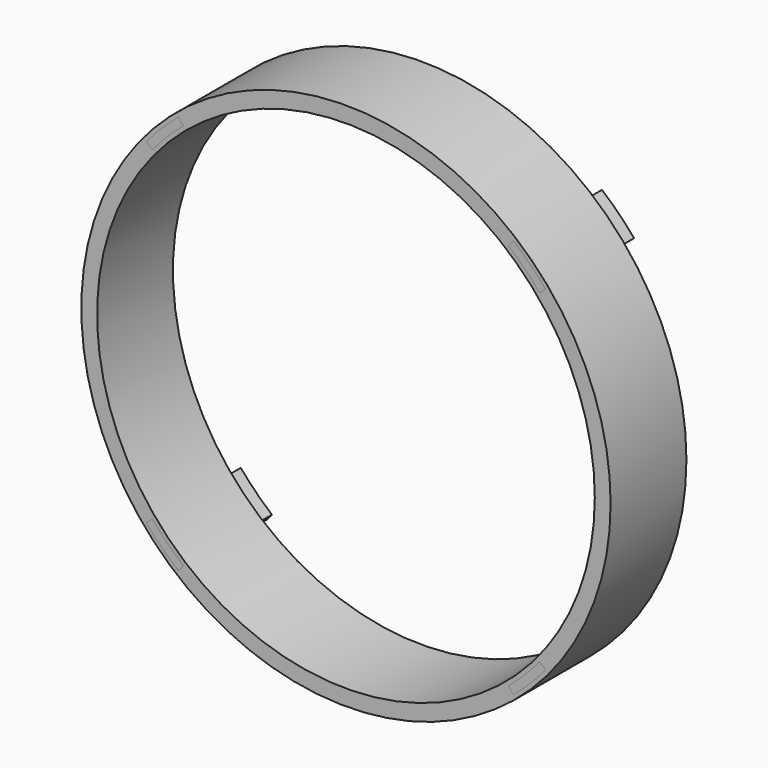
from build123d import *

# Parameters (mm, degrees)
F0_R     = 83.75
F0_R_2   = 78.75
F1_DEPTH = 30
F2_DEPTH = 5
F3_DEPTH = 30


with BuildPart() as f1:
    # F0 (on Front) → F1 (new body)
    with BuildSketch(Plane.XZ):
        Circle(F0_R)
        with BuildLine():
            ThreePointArc((-53.029978, -63.198667), (-58.336309, -58.336309), (-63.198667, -53.029978))
            Line((-63.198667, -53.029978), (-61.283555, -51.423009))
            ThreePointArc((-61.283555, -51.423009), (-56.568542, -56.568542), (-51.423009, -61.283555))
            Line((-51.423009, -61.283555), (-53.029978, -63.198667))
        make_face(mode=Mode.SUBTRACT)
        with BuildLine():
            Line((53.029978, -63.198667), (51.423009, -61.283555))
            ThreePointArc((51.423009, -61.283555), (56.568542, -56.568542), (61.283555, -51.423009))
            Line((61.283555, -51.423009), (63.198667, -53.029978))
            ThreePointArc((63.198667, -53.029978), (58.336309, -58.336309), (53.029978, -63.198667))
        make_face(mode=Mode.SUBTRACT)
        with BuildLine():
            ThreePointArc((-63.198667, 53.029978), (-58.336309, 58.336309), (-53.029978, 63.198667))
            Line((-53.029978, 63.198667), (-51.423009, 61.283555))
            ThreePointArc((-51.423009, 61.283555), (-56.568542, 56.568542), (-61.283555, 51.423009))
            Line((-61.283555, 51.423009), (-63.198667, 53.029978))
        make_face(mode=Mode.SUBTRACT)
        Circle(F0_R_2, mode=Mode.SUBTRACT)
        with BuildLine():
            ThreePointArc((53.029978, 63.198667), (58.336309, 58.336309), (63.198667, 53.029978))
            Line((63.198667, 53.029978), (61.283555, 51.423009))
            ThreePointArc((61.283555, 51.423009), (56.568542, 56.568542), (51.423009, 61.283555))
            Line((51.423009, 61.283555), (53.029978, 63.198667))
        make_face(mode=Mode.SUBTRACT)
    extrude(amount=F1_DEPTH)


with BuildPart() as f2:
    # F0 (on Front) → F2 (new body)
    with BuildSketch(Plane.XZ):
        with BuildLine():
            Line((-51.423009, 61.283555), (-53.029978, 63.198667))
            ThreePointArc((-53.029978, 63.198667), (-58.336309, 58.336309), (-63.198667, 53.029978))
            Line((-63.198667, 53.029978), (-61.283555, 51.423009))
            ThreePointArc((-61.283555, 51.423009), (-56.568542, 56.568542), (-51.423009, 61.283555))
        make_face()
        with BuildLine():
            Line((-61.283555, -51.423009), (-63.198667, -53.029978))
            ThreePointArc((-63.198667, -53.029978), (-58.336309, -58.336309), (-53.029978, -63.198667))
            Line((-53.029978, -63.198667), (-51.423009, -61.283555))
            ThreePointArc((-51.423009, -61.283555), (-56.568542, -56.568542), (-61.283555, -51.423009))
        make_face()
        with BuildLine():
            Line((61.283555, 51.423009), (63.198667, 53.029978))
            ThreePointArc((63.198667, 53.029978), (58.336309, 58.336309), (53.029978, 63.198667))
            Line((53.029978, 63.198667), (51.423009, 61.283555))
            ThreePointArc((51.423009, 61.283555), (56.568542, 56.568542), (61.283555, 51.423009))
        make_face()
        with BuildLine():
            ThreePointArc((61.283555, -51.423009), (56.568542, -56.568542), (51.423009, -61.283555))
            Line((51.423009, -61.283555), (53.029978, -63.198667))
            ThreePointArc((53.029978, -63.198667), (58.336309, -58.336309), (63.198667, -53.029978))
            Line((63.198667, -53.029978), (61.283555, -51.423009))
        make_face()
    extrude(amount=-F2_DEPTH)


with BuildPart() as f3:
    # F0 (on Front) → F3 (new body)
    with BuildSketch(Plane.XZ):
        with BuildLine():
            Line((-51.423009, 61.283555), (-53.029978, 63.198667))
            ThreePointArc((-53.029978, 63.198667), (-58.336309, 58.336309), (-63.198667, 53.029978))
            Line((-63.198667, 53.029978), (-61.283555, 51.423009))
            ThreePointArc((-61.283555, 51.423009), (-56.568542, 56.568542), (-51.423009, 61.283555))
        make_face()
        with BuildLine():
            Line((-61.283555, -51.423009), (-63.198667, -53.029978))
            ThreePointArc((-63.198667, -53.029978), (-58.336309, -58.336309), (-53.029978, -63.198667))
            Line((-53.029978, -63.198667), (-51.423009, -61.283555))
            ThreePointArc((-51.423009, -61.283555), (-56.568542, -56.568542), (-61.283555, -51.423009))
        make_face()
        with BuildLine():
            ThreePointArc((61.283555, -51.423009), (56.568542, -56.568542), (51.423009, -61.283555))
            Line((51.423009, -61.283555), (53.029978, -63.198667))
            ThreePointArc((53.029978, -63.198667), (58.336309, -58.336309), (63.198667, -53.029978))
            Line((63.198667, -53.029978), (61.283555, -51.423009))
        make_face()
        with BuildLine():
            Line((61.283555, 51.423009), (63.198667, 53.029978))
            ThreePointArc((63.198667, 53.029978), (58.336309, 58.336309), (53.029978, 63.198667))
            Line((53.029978, 63.198667), (51.423009, 61.283555))
            ThreePointArc((51.423009, 61.283555), (56.568542, 56.568542), (61.283555, 51.423009))
        make_face()
    extrude(amount=F3_DEPTH)


solid = Compound([f1.part, f2.part, f3.part])
